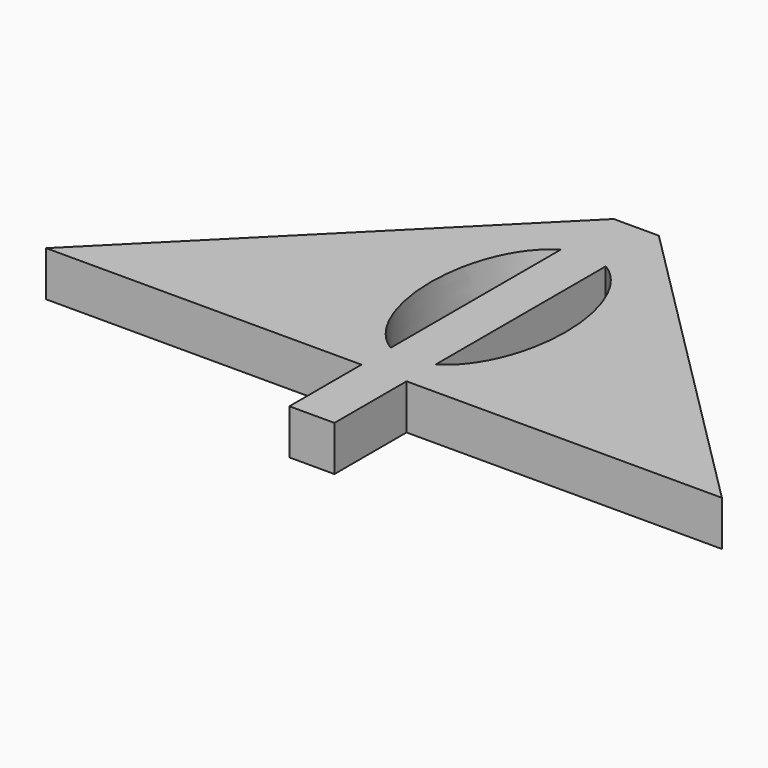
from build123d import *

# Parameters (mm, degrees)
F1_DEPTH = 6.35


with BuildPart() as f1:
    # F0 (on Top) → F1 (new body)
    with BuildSketch(Plane.XY):
        with BuildLine():
            Line((-3.175, 19.2177452262), (-3.175, 28.575))
            Line((-3.175, 28.575), (-47.625, -15.875))
            Line((-47.625, -15.875), (-3.175, -15.875))
            Line((-3.175, -15.875), (-3.175, -10.716441844))
            add(Edge.make_bspline(
                [(-3.175, 19.2177452262), (-28.575, 4.2506516911), (-3.175, -10.716441844)],
                knots=[0.3398369095, 0.3398369095, 0.3398369095, 2.8017557441, 2.8017557441, 2.8017557441], degree=2, weights=[1, 0.3333333333, 1]))
        make_face()
        with BuildLine():
            Line((47.625, -15.875), (3.175, 28.575))
            Line((3.175, 28.575), (3.175, 19.2177452262))
            add(Edge.make_bspline(
                [(3.175, -10.716441844), (28.575, 4.2506516911), (3.175, 19.2177452262)],
                knots=[3.481429563, 3.481429563, 3.481429563, 5.9433483977, 5.9433483977, 5.9433483977], degree=2, weights=[1, 0.3333333333, 1]))
            Line((3.175, -10.716441844), (3.175, -15.875))
            Line((3.175, -15.875), (47.625, -15.875))
        make_face()
        with BuildLine():
            Line((3.175, -10.716441844), (3.175, 19.2177452262))
            add(Edge.make_bspline(
                [(3.175, 19.2177452262), (1.6342316368, 20.1256516911), (0, 20.1256516911)],
                knots=[5.9433483977, 5.9433483977, 5.9433483977, 6.2831853072, 6.2831853072, 6.2831853072], degree=2, weights=[1, 0.9855985597, 1]))
            add(Edge.make_bspline(
                [(0, 20.1256516911), (-1.6342316368, 20.1256516911), (-3.175, 19.2177452262)],
                knots=[0, 0, 0, 0.3398369095, 0.3398369095, 0.3398369095], degree=2, weights=[1, 0.9855985597, 1]))
            Line((-3.175, 19.2177452262), (-3.175, -10.716441844))
            add(Edge.make_bspline(
                [(-3.175, -10.716441844), (0, -12.5873285359), (3.175, -10.716441844)],
                knots=[2.8017557441, 2.8017557441, 2.8017557441, 3.481429563, 3.481429563, 3.481429563], degree=2, weights=[1, 0.9428090416, 1]))
        make_face()
        with BuildLine():
            Line((3.175, 19.2177452262), (3.175, 28.575))
            Line((3.175, 28.575), (-3.175, 28.575))
            Line((-3.175, 28.575), (-3.175, 19.2177452262))
            add(Edge.make_bspline(
                [(0, 20.1256516911), (-1.6342316368, 20.1256516911), (-3.175, 19.2177452262)],
                knots=[0, 0, 0, 0.3398369095, 0.3398369095, 0.3398369095], degree=2, weights=[1, 0.9855985597, 1]))
            add(Edge.make_bspline(
                [(3.175, 19.2177452262), (1.6342316368, 20.1256516911), (0, 20.1256516911)],
                knots=[5.9433483977, 5.9433483977, 5.9433483977, 6.2831853072, 6.2831853072, 6.2831853072], degree=2, weights=[1, 0.9855985597, 1]))
        make_face()
        with BuildLine():
            Line((3.175, -15.875), (3.175, -10.716441844))
            add(Edge.make_bspline(
                [(-3.175, -10.716441844), (0, -12.5873285359), (3.175, -10.716441844)],
                knots=[2.8017557441, 2.8017557441, 2.8017557441, 3.481429563, 3.481429563, 3.481429563], degree=2, weights=[1, 0.9428090416, 1]))
            Line((-3.175, -10.716441844), (-3.175, -15.875))
            Line((-3.175, -15.875), (-3.175, -28.575))
            Line((-3.175, -28.575), (3.175, -28.575))
            Line((3.175, -28.575), (3.175, -15.875))
        make_face()
    extrude(amount=F1_DEPTH)


solid = f1.part
